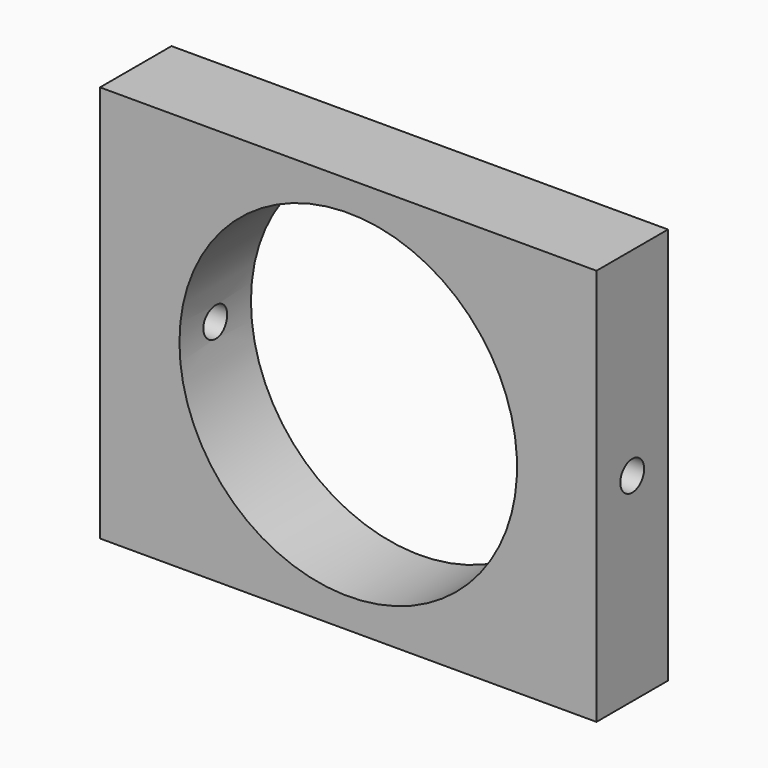
from build123d import *

# Parameters (mm, degrees)
F0_W     = 100
F0_H     = 80
F1_DEPTH = 18
F3_D     = 68
F5_D     = 6


with BuildPart() as f1:
    # F0 (on Front) → F1 (new body)
    with BuildSketch(Plane.XZ):
        with Locations((50, 40)):
            Rectangle(F0_W, F0_H)
    extrude(amount=F1_DEPTH)

    # F3 (through all)
    with Locations(Plane.XZ.offset(18)):
        with Locations((50, 40)):
            Hole(F3_D / 2)

    # F5 (through all)
    with Locations(Plane.YZ.offset(100)):
        with Locations((-9, 40)):
            Hole(F5_D / 2)


solid = f1.part
